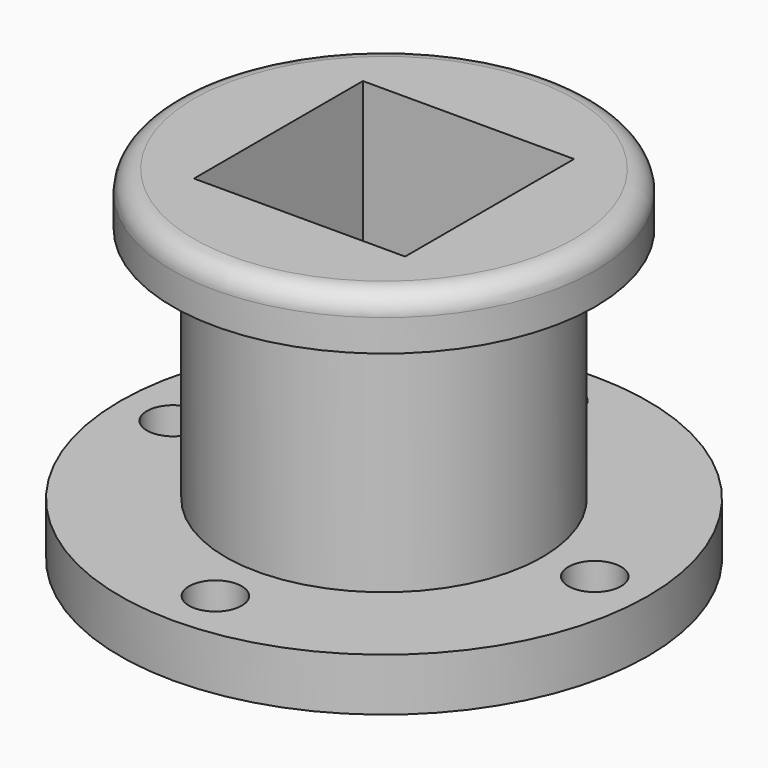
from build123d import *

# Parameters (mm, degrees)
F0_R      = 38.1
F1_DEPTH  = 57.15
F2_R      = 50.8
F3_DEPTH  = 12.7
F4_R      = 63.5
F5_DEPTH  = 12.7
F6_R      = 5.08
F7_W      = 50.8
F7_H      = 50.8
F8_DEPTH  = 127
F9_R      = 6.35
F10_DEPTH = 25.4


with BuildPart() as f1:
    # F0 (on Top) → F1 (new body)
    with BuildSketch(Plane.XY):
        Circle(F0_R)
    extrude(amount=F1_DEPTH)

    # F2 (on face) → F3 (join)
    with BuildSketch(Plane.XY.offset(57.15)):
        Circle(F2_R)
    extrude(amount=F3_DEPTH)

    # F4 (on face) → F5 (join)
    with BuildSketch(Plane(origin=(0, 0, 0), x_dir=(1, 0, 0), z_dir=(0, 0, -1))):
        Circle(F4_R)
    extrude(amount=F5_DEPTH)

    # F6
    f6_edges = [f1.edges().sort_by_distance(p)[0] for p in [
        (-50.8, 0, 69.85),
    ]]
    fillet(f6_edges, radius=F6_R)

    # F7 (on face) → F8 (cut)
    with BuildSketch(Plane.XY.offset(69.85)):
        Rectangle(F7_W, F7_H)
    extrude(amount=-F8_DEPTH, mode=Mode.SUBTRACT)

    # F9 (on face) → F10 (cut)
    with BuildSketch(Plane.XY):
        with Locations((0, 51.080368)):
            Circle(F9_R)
        with Locations((50.698459, 0)):
            Circle(F9_R)
        with Locations((0, -50.698463)):
            Circle(F9_R)
        with Locations((-50.698463, 0)):
            Circle(F9_R)
    extrude(amount=-F10_DEPTH, mode=Mode.SUBTRACT)


solid = f1.part
